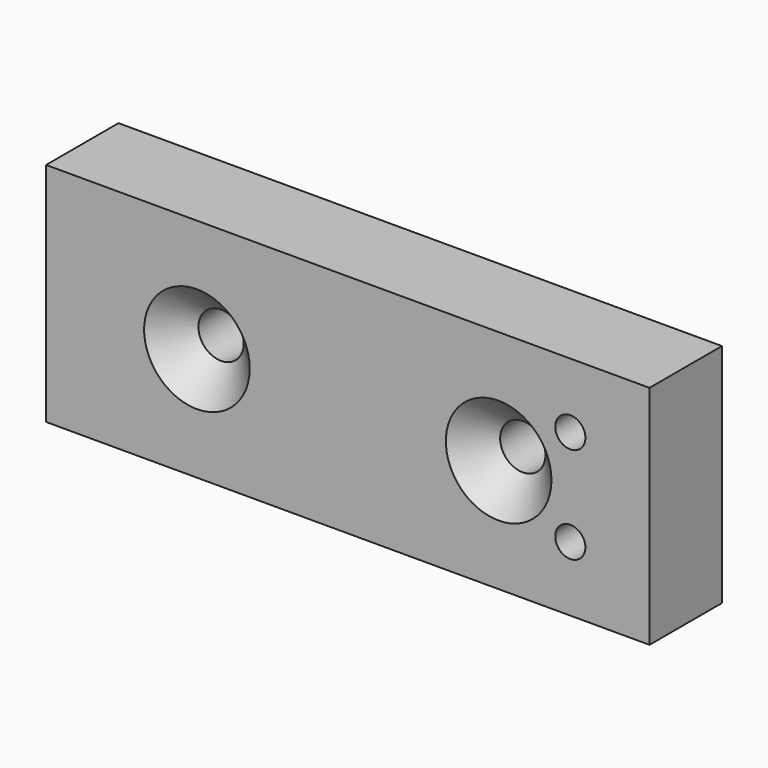
from build123d import *

# Parameters (mm, degrees)
F0_W     = 40
F0_H     = 15
F0_R     = 1
F0_R_2   = 1.5
F1_DEPTH = 6
F2_SIZE  = 2


with BuildPart() as f1:
    # F0 (on Front) → F1 (new body)
    with BuildSketch(Plane.XZ):
        Rectangle(F0_W, F0_H)
        with Locations((14.75, -3.2)):
            Circle(F0_R, mode=Mode.SUBTRACT)
        with Locations((-10, 0)):
            Circle(F0_R_2, mode=Mode.SUBTRACT)
        with Locations((10, 0)):
            Circle(F0_R_2, mode=Mode.SUBTRACT)
        with Locations((14.75, 3.2)):
            Circle(F0_R, mode=Mode.SUBTRACT)
    extrude(amount=F1_DEPTH)

    # F2
    f2_edges = [f1.edges().sort_by_distance(p)[0] for p in [
        (-11.5, -6, 0),
        (8.5, -6, 0),
    ]]
    chamfer(f2_edges, length=F2_SIZE)


solid = f1.part
